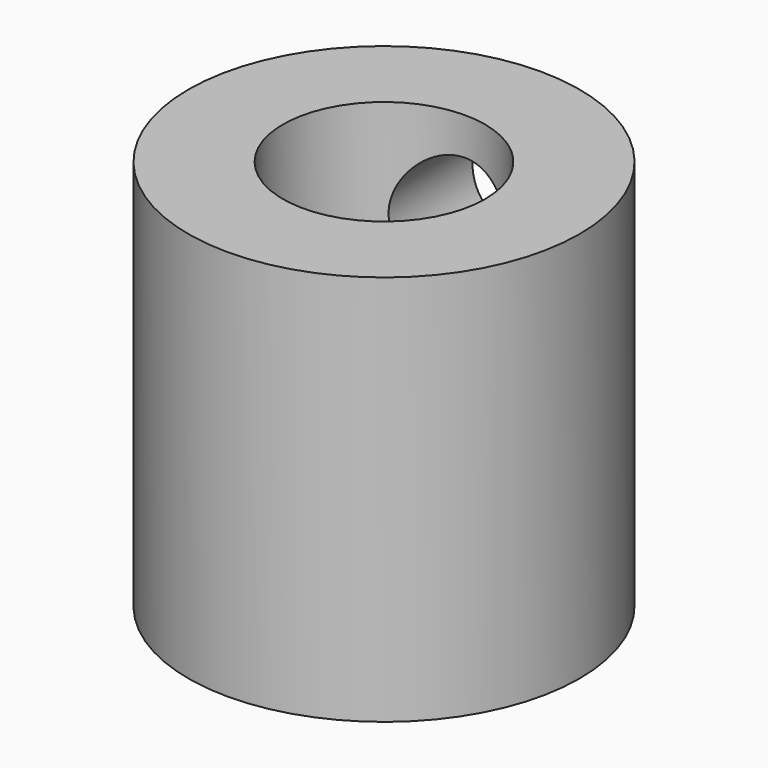
from build123d import *

# Parameters (mm, degrees)
SKETCH_R        = 6
PAD_DEPTH       = 12
SKETCH001_R     = 3.1
POCKET_DEPTH    = 6
SKETCH002_R     = 1.6
POCKET001_DEPTH = 6
SKETCH003_R     = 1.85
POCKET002_DEPTH = 6.001


with BuildPart() as part:
    # Sketch → Pad (new body)
    with BuildSketch(Plane.XY):
        Circle(SKETCH_R)
    extrude(amount=PAD_DEPTH)

    # Sketch001 (on Face3 of Pad) → Pocket (cut)
    with BuildSketch(Plane.XY.offset(12)):
        Circle(SKETCH001_R)
    extrude(amount=-POCKET_DEPTH, mode=Mode.SUBTRACT)

    # Sketch002 (on Face2 of Pocket) → Pocket001 (cut)
    with BuildSketch(Plane(origin=(0, 0, 0), x_dir=(1, 0, 0), z_dir=(0, 0, -1))):
        Circle(SKETCH002_R)
    extrude(amount=-POCKET001_DEPTH, mode=Mode.SUBTRACT)

    # Sketch003 → Pocket002 (cut, through all)
    with BuildSketch(Plane.XZ):
        with Locations((0, 9)):
            Circle(SKETCH003_R)
        with Locations((0, 3)):
            Circle(SKETCH003_R)
    extrude(amount=-POCKET002_DEPTH, mode=Mode.SUBTRACT)


solid = part.part
